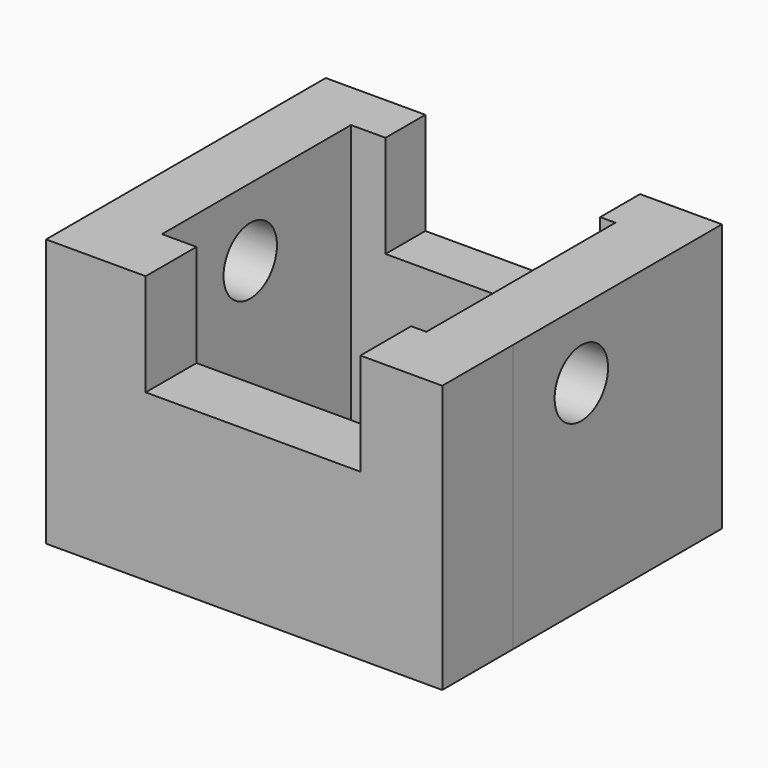
from build123d import *

# Parameters (mm, degrees)
F0_W      = 113.838189
F0_H      = 75.045459
F0_W_2    = 75.969089
F0_H_2    = 47.567274
F1_DEPTH  = 76.962
F1_FACE_W = 113.838188
F1_FACE_H = 76.962
F2_DEPTH  = 25.4
F3_W      = 61.692573
F3_H      = 29.383676
F4_DEPTH  = 132.842
F5_W      = 75.969089
F5_H      = 67.656364
F6_DEPTH  = 129.032
F7_R      = 9.597279
F8_DEPTH  = 241.808


with BuildPart() as f1:
    # F0 (on Top) → F1 (new body)
    with BuildSketch(Plane.XY):
        with Locations((10.044548, 4.618182)):
            Rectangle(F0_W, F0_H)
        with Locations((9.813634, 4.04091)):
            Rectangle(F0_W_2, F0_H_2, mode=Mode.SUBTRACT)
    extrude(amount=F1_DEPTH)

    # F1_face (on face) → F2 (join)
    with BuildSketch(Plane(origin=(10.044549, -32.904547, 38.481), x_dir=(1, 0, 0), z_dir=(0, -1, 0))):
        Rectangle(F1_FACE_W, F1_FACE_H)
    extrude(amount=F2_DEPTH)

    # F3 (on face) → F4 (cut)
    with BuildSketch(Plane.XZ.offset(58.304547)):
        with Locations((12.595225, 62.270162)):
            Rectangle(F3_W, F3_H)
    extrude(amount=-F4_DEPTH, mode=Mode.SUBTRACT)

    # F5 (on Top) → F6 (cut)
    with BuildSketch(Plane.XY):
        with Locations((9.813634, -6.234547)):
            Rectangle(F5_W, F5_H)
    extrude(amount=F6_DEPTH, mode=Mode.SUBTRACT)

    # F7 (on face) → F8 (cut)
    with BuildSketch(Plane.YZ.offset(66.963643)):
        with Locations((-8.354291, 57.352625)):
            Circle(F7_R)
    extrude(amount=-F8_DEPTH, mode=Mode.SUBTRACT)


solid = f1.part
